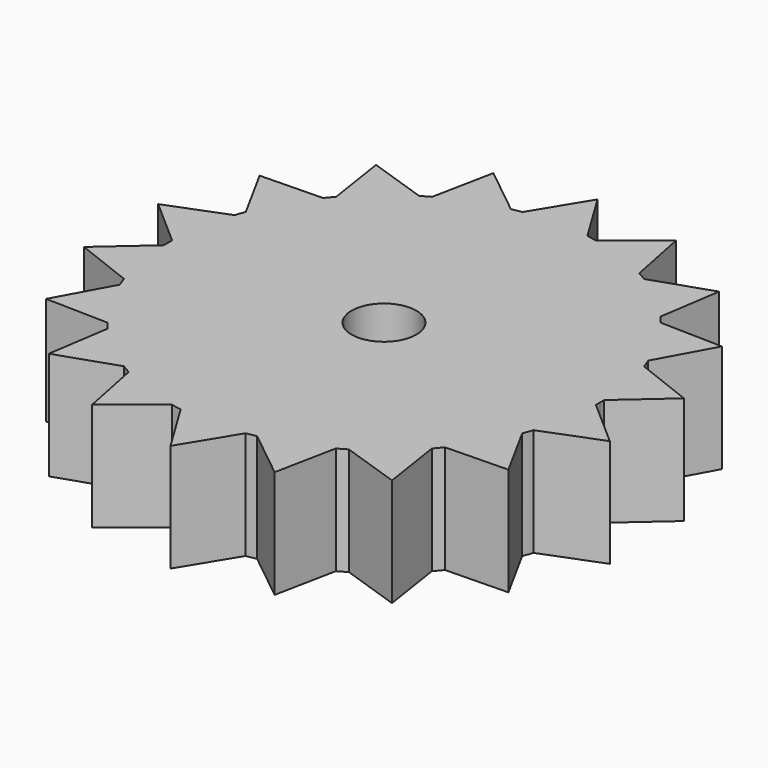
from build123d import *

# Parameters (mm, degrees)
F1_DEPTH = 5.08
F2_R     = 1.524
F3_DEPTH = 5.08


with BuildPart() as f1:
    # F0 (on Top) → F1 (new body)
    with BuildSketch(Plane.XY):
        with BuildLine():
            ThreePointArc((10.157083, -0.243458), (10.159271, -0.121738), (10.16, 0))
            ThreePointArc((10.16, 0), (10.159271, 0.121738), (10.157083, 0.243458))
            ThreePointArc((10.157083, 0.243458), (10.005647, 1.764265), (9.627803, 3.245152))
            ThreePointArc((9.627803, 3.245152), (9.547277, 3.474925), (9.461268, 3.702702))
            ThreePointArc((9.461268, 3.702702), (8.798818, 5.08), (7.937268, 6.342348))
            ThreePointArc((7.937268, 6.342348), (7.783012, 6.530722), (7.624285, 6.715346))
            ThreePointArc((7.624285, 6.715346), (6.530722, 7.783012), (5.289382, 8.674563))
            ThreePointArc((5.289382, 8.674563), (5.08, 8.798818), (4.867701, 8.91802))
            ThreePointArc((4.867701, 8.91802), (3.474925, 9.547277), (2.003518, 9.960498))
            ThreePointArc((2.003518, 9.960498), (1.764265, 10.005647), (1.524, 10.04505))
            ThreePointArc((1.524, 10.04505), (0, 10.16), (-1.524, 10.04505))
            ThreePointArc((-1.524, 10.04505), (-1.764265, 10.005647), (-2.003518, 9.960498))
            ThreePointArc((-2.003518, 9.960498), (-3.474925, 9.547277), (-4.867701, 8.91802))
            ThreePointArc((-4.867701, 8.91802), (-5.08, 8.798818), (-5.289382, 8.674563))
            ThreePointArc((-5.289382, 8.674563), (-6.530722, 7.783012), (-7.624285, 6.715346))
            ThreePointArc((-7.624285, 6.715346), (-7.783012, 6.530722), (-7.937268, 6.342348))
            ThreePointArc((-7.937268, 6.342348), (-8.798818, 5.08), (-9.461268, 3.702702))
            ThreePointArc((-9.461268, 3.702702), (-9.547277, 3.474925), (-9.627803, 3.245152))
            ThreePointArc((-9.627803, 3.245152), (-10.005647, 1.764265), (-10.157083, 0.243458))
            ThreePointArc((-10.157083, 0.243458), (-10.16, 0), (-10.157083, -0.243458))
            ThreePointArc((-10.157083, -0.243458), (-10.005647, -1.764265), (-9.627803, -3.245152))
            ThreePointArc((-9.627803, -3.245152), (-9.547277, -3.474925), (-9.461268, -3.702702))
            ThreePointArc((-9.461268, -3.702702), (-8.798818, -5.08), (-7.937268, -6.342348))
            ThreePointArc((-7.937268, -6.342348), (-7.783012, -6.530722), (-7.624285, -6.715346))
            ThreePointArc((-7.624285, -6.715346), (-6.530722, -7.783012), (-5.289382, -8.674563))
            ThreePointArc((-5.289382, -8.674563), (-5.08, -8.798818), (-4.867701, -8.91802))
            ThreePointArc((-4.867701, -8.91802), (-3.474925, -9.547277), (-2.003518, -9.960498))
            ThreePointArc((-2.003518, -9.960498), (-1.764265, -10.005647), (-1.524, -10.04505))
            ThreePointArc((-1.524, -10.04505), (0, -10.16), (1.524, -10.04505))
            ThreePointArc((1.524, -10.04505), (1.764265, -10.005647), (2.003518, -9.960498))
            ThreePointArc((2.003518, -9.960498), (3.474925, -9.547277), (4.867701, -8.91802))
            ThreePointArc((4.867701, -8.91802), (5.08, -8.798818), (5.289382, -8.674563))
            ThreePointArc((5.289382, -8.674563), (6.530722, -7.783012), (7.624285, -6.715346))
            ThreePointArc((7.624285, -6.715346), (7.783012, -6.530722), (7.937268, -6.342348))
            ThreePointArc((7.937268, -6.342348), (8.798818, -5.08), (9.461268, -3.702702))
            ThreePointArc((9.461268, -3.702702), (9.547277, -3.474925), (9.627803, -3.245152))
            ThreePointArc((9.627803, -3.245152), (10.005647, -1.764265), (10.157083, -0.243458))
        make_face()
        with BuildLine():
            Line((8.067152, -9.614058), (7.624285, -6.715346))
            ThreePointArc((7.624285, -6.715346), (6.530722, -7.783012), (5.289382, -8.674563))
            Line((5.289382, -8.674563), (8.067152, -9.614058))
        make_face()
        with BuildLine():
            Line((0, -12.550261), (1.524, -10.04505))
            ThreePointArc((1.524, -10.04505), (0, -10.16), (-1.524, -10.04505))
            Line((-1.524, -10.04505), (0, -12.550261))
        make_face()
        with BuildLine():
            Line((4.292442, -11.793388), (4.867701, -8.91802))
            ThreePointArc((4.867701, -8.91802), (3.474925, -9.547277), (2.003518, -9.960498))
            Line((2.003518, -9.960498), (4.292442, -11.793388))
        make_face()
        with BuildLine():
            ThreePointArc((9.627803, 3.245152), (10.005647, 1.764265), (10.157083, 0.243458))
            Line((10.157083, 0.243458), (12.359594, 2.17933))
            Line((12.359594, 2.17933), (9.627803, 3.245152))
        make_face()
        with BuildLine():
            ThreePointArc((7.937268, 6.342348), (8.798818, 5.08), (9.461268, 3.702702))
            Line((9.461268, 3.702702), (10.868845, 6.27513))
            Line((10.868845, 6.27513), (7.937268, 6.342348))
        make_face()
        with BuildLine():
            ThreePointArc((5.289382, 8.674563), (6.530722, 7.783012), (7.624285, 6.715346))
            Line((7.624285, 6.715346), (8.067152, 9.614058))
            Line((8.067152, 9.614058), (5.289382, 8.674563))
        make_face()
        with BuildLine():
            ThreePointArc((2.003518, 9.960498), (3.474925, 9.547277), (4.867701, 8.91802))
            Line((4.867701, 8.91802), (4.292442, 11.793388))
            Line((4.292442, 11.793388), (2.003518, 9.960498))
        make_face()
        with BuildLine():
            ThreePointArc((-1.524, 10.04505), (0, 10.16), (1.524, 10.04505))
            Line((1.524, 10.04505), (0, 12.550261))
            Line((0, 12.550261), (-1.524, 10.04505))
        make_face()
        with BuildLine():
            Line((10.868845, -6.27513), (9.461268, -3.702702))
            ThreePointArc((9.461268, -3.702702), (8.798818, -5.08), (7.937268, -6.342348))
            Line((7.937268, -6.342348), (10.868845, -6.27513))
        make_face()
        with BuildLine():
            ThreePointArc((-4.867701, 8.91802), (-3.474925, 9.547277), (-2.003518, 9.960498))
            Line((-2.003518, 9.960498), (-4.292442, 11.793388))
            Line((-4.292442, 11.793388), (-4.867701, 8.91802))
        make_face()
        with BuildLine():
            Line((12.359594, -2.17933), (10.157083, -0.243458))
            ThreePointArc((10.157083, -0.243458), (10.005647, -1.764265), (9.627803, -3.245152))
            Line((9.627803, -3.245152), (12.359594, -2.17933))
        make_face()
        with BuildLine():
            ThreePointArc((-7.624285, 6.715346), (-6.530722, 7.783012), (-5.289382, 8.674563))
            Line((-5.289382, 8.674563), (-8.067152, 9.614058))
            Line((-8.067152, 9.614058), (-7.624285, 6.715346))
        make_face()
        with BuildLine():
            ThreePointArc((-9.461268, 3.702702), (-8.798818, 5.08), (-7.937268, 6.342348))
            Line((-7.937268, 6.342348), (-10.868845, 6.27513))
            Line((-10.868845, 6.27513), (-9.461268, 3.702702))
        make_face()
        with BuildLine():
            ThreePointArc((-10.157083, 0.243458), (-10.005647, 1.764265), (-9.627803, 3.245152))
            Line((-9.627803, 3.245152), (-12.359594, 2.17933))
            Line((-12.359594, 2.17933), (-10.157083, 0.243458))
        make_face()
        with BuildLine():
            Line((-10.868845, -6.27513), (-7.937268, -6.342348))
            ThreePointArc((-7.937268, -6.342348), (-8.798818, -5.08), (-9.461268, -3.702702))
            Line((-9.461268, -3.702702), (-10.868845, -6.27513))
        make_face()
        with BuildLine():
            Line((-12.359594, -2.17933), (-9.627803, -3.245152))
            ThreePointArc((-9.627803, -3.245152), (-10.005647, -1.764265), (-10.157083, -0.243458))
            Line((-10.157083, -0.243458), (-12.359594, -2.17933))
        make_face()
        with BuildLine():
            Line((-8.067152, -9.614058), (-5.289382, -8.674563))
            ThreePointArc((-5.289382, -8.674563), (-6.530722, -7.783012), (-7.624285, -6.715346))
            Line((-7.624285, -6.715346), (-8.067152, -9.614058))
        make_face()
        with BuildLine():
            Line((-4.292442, -11.793388), (-2.003518, -9.960498))
            ThreePointArc((-2.003518, -9.960498), (-3.474925, -9.547277), (-4.867701, -8.91802))
            Line((-4.867701, -8.91802), (-4.292442, -11.793388))
        make_face()
    extrude(amount=F1_DEPTH)

    # F2 (on face) → F3 (cut)
    with BuildSketch(Plane.XY.offset(5.08)):
        Circle(F2_R)
    extrude(amount=-F3_DEPTH, mode=Mode.SUBTRACT)


solid = f1.part
